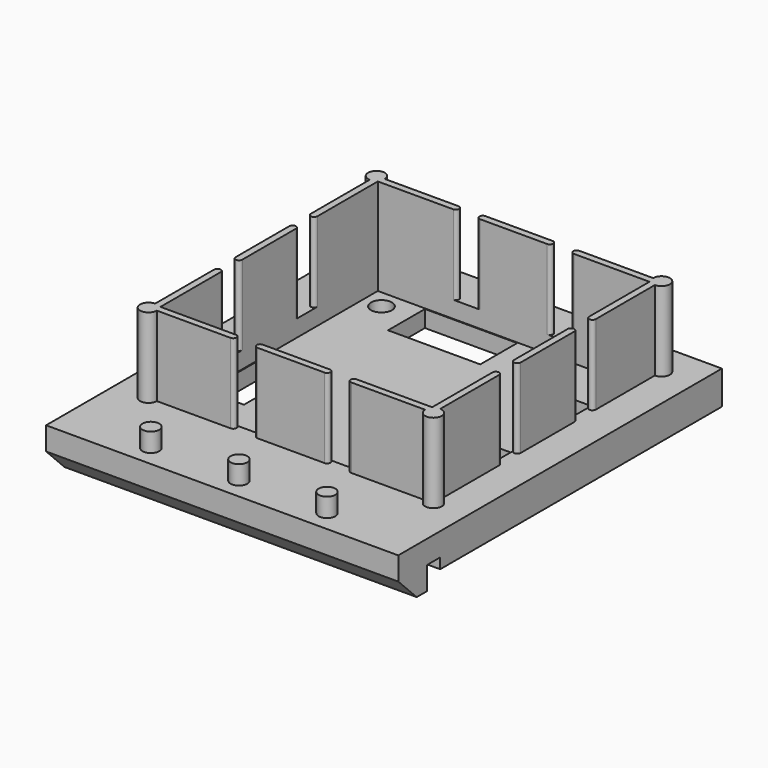
from build123d import *

# Parameters (mm, degrees)
F0_W     = 42
F0_H     = 42
F0_R     = 1.25
F0_W_2   = 4.5
F0_H_2   = 8
F0_W_3   = 4.4
F0_W_4   = 11
F0_H_3   = 5.5
F0_W_5   = 5.5
F0_H_4   = 7
F2_DEPTH = 4
F3_DEPTH = 21
F4_DEPTH = 21
F5_DEPTH = 9.5
F6_R     = 1
F7_DEPTH = 2.25
F8_DEPTH = 2


with BuildPart() as f2:
    # F0 (on Top) → F2 (new body)
    with BuildSketch(Plane.XY):
        with BuildLine():
            Line((16.2, 16.2), (16.2, 7.2))
            ThreePointArc((16.2, 7.2), (16.6, 6.8), (17, 7.2))
            Line((17, 7.2), (17, 16))
            ThreePointArc((17, 16), (17.707107, 17.707107), (16, 17))
            Line((16, 17), (7.2, 17))
            ThreePointArc((7.2, 17), (6.8, 16.6), (7.2, 16.2))
            Line((7.2, 16.2), (16.2, 16.2))
        make_face()
        with BuildLine():
            ThreePointArc((17, -7.2), (16.6, -6.8), (16.2, -7.2))
            Line((16.2, -7.2), (16.2, -16.2))
            Line((16.2, -16.2), (7.2, -16.2))
            ThreePointArc((7.2, -16.2), (6.8, -16.6), (7.2, -17))
            Line((7.2, -17), (16, -17))
            ThreePointArc((16, -17), (17.707107, -17.707107), (17, -16))
            Line((17, -16), (17, -7.2))
        make_face()
        with BuildLine():
            Line((-16.2, 16.2), (-7.2, 16.2))
            ThreePointArc((-7.2, 16.2), (-6.8, 16.6), (-7.2, 17))
            Line((-7.2, 17), (-16, 17))
            ThreePointArc((-16, 17), (-17.707107, 17.707107), (-17, 16))
            Line((-17, 16), (-17, 7.2))
            ThreePointArc((-17, 7.2), (-16.6, 6.8), (-16.2, 7.2))
            Line((-16.2, 7.2), (-16.2, 16.2))
        make_face()
        with BuildLine():
            ThreePointArc((-7.2, -17), (-6.8, -16.6), (-7.2, -16.2))
            Line((-7.2, -16.2), (-16.2, -16.2))
            Line((-16.2, -16.2), (-16.2, -7.2))
            ThreePointArc((-16.2, -7.2), (-16.6, -6.8), (-17, -7.2))
            Line((-17, -7.2), (-17, -16))
            ThreePointArc((-17, -16), (-17.707107, -17.707107), (-16, -17))
            Line((-16, -17), (-7.2, -17))
        make_face()
        Rectangle(F0_W, F0_H)
        with BuildLine():
            ThreePointArc((16.2, 4), (16.6, 4.4), (17, 4))
            Line((17, 4), (17, -4))
            ThreePointArc((17, -4), (16.6, -4.4), (16.2, -4))
            Line((16.2, -4), (16.2, -7.2))
            ThreePointArc((16.2, -7.2), (16.6, -6.8), (17, -7.2))
            Line((17, -7.2), (17, -16))
            ThreePointArc((17, -16), (17.707107, -17.707107), (16, -17))
            Line((16, -17), (7.2, -17))
            ThreePointArc((7.2, -17), (6.8, -16.6), (7.2, -16.2))
            Line((7.2, -16.2), (4, -16.2))
            ThreePointArc((4, -16.2), (4.4, -16.6), (4, -17))
            Line((4, -17), (-4, -17))
            ThreePointArc((-4, -17), (-4.4, -16.6), (-4, -16.2))
            Line((-4, -16.2), (-7.2, -16.2))
            ThreePointArc((-7.2, -16.2), (-6.8, -16.6), (-7.2, -17))
            Line((-7.2, -17), (-16, -17))
            ThreePointArc((-16, -17), (-17.707107, -17.707107), (-17, -16))
            Line((-17, -16), (-17, -7.2))
            ThreePointArc((-17, -7.2), (-16.6, -6.8), (-16.2, -7.2))
            Line((-16.2, -7.2), (-16.2, -4))
            ThreePointArc((-16.2, -4), (-16.6, -4.4), (-17, -4))
            Line((-17, -4), (-17, 4))
            ThreePointArc((-17, 4), (-16.6, 4.4), (-16.2, 4))
            Line((-16.2, 4), (-16.2, 7.2))
            ThreePointArc((-16.2, 7.2), (-16.6, 6.8), (-17, 7.2))
            Line((-17, 7.2), (-17, 16))
            ThreePointArc((-17, 16), (-17.707107, 17.707107), (-16, 17))
            Line((-16, 17), (-7.2, 17))
            ThreePointArc((-7.2, 17), (-6.8, 16.6), (-7.2, 16.2))
            Line((-7.2, 16.2), (-4, 16.2))
            ThreePointArc((-4, 16.2), (-4.4, 16.6), (-4, 17))
            Line((-4, 17), (4, 17))
            ThreePointArc((4, 17), (4.4, 16.6), (4, 16.2))
            Line((4, 16.2), (7.2, 16.2))
            ThreePointArc((7.2, 16.2), (6.8, 16.6), (7.2, 17))
            Line((7.2, 17), (16, 17))
            ThreePointArc((16, 17), (17.707107, 17.707107), (17, 16))
            Line((17, 16), (17, 7.2))
            ThreePointArc((17, 7.2), (16.6, 6.8), (16.2, 7.2))
            Line((16.2, 7.2), (16.2, 4))
        make_face(mode=Mode.SUBTRACT)
        Rectangle(F0_W, F0_H)
        with BuildLine():
            ThreePointArc((16.2, 4), (16.6, 4.4), (17, 4))
            Line((17, 4), (17, -4))
            ThreePointArc((17, -4), (16.6, -4.4), (16.2, -4))
            Line((16.2, -4), (16.2, -7.2))
            ThreePointArc((16.2, -7.2), (16.6, -6.8), (17, -7.2))
            Line((17, -7.2), (17, -16))
            ThreePointArc((17, -16), (17.707107, -17.707107), (16, -17))
            Line((16, -17), (7.2, -17))
            ThreePointArc((7.2, -17), (6.8, -16.6), (7.2, -16.2))
            Line((7.2, -16.2), (4, -16.2))
            ThreePointArc((4, -16.2), (4.4, -16.6), (4, -17))
            Line((4, -17), (-4, -17))
            ThreePointArc((-4, -17), (-4.4, -16.6), (-4, -16.2))
            Line((-4, -16.2), (-7.2, -16.2))
            ThreePointArc((-7.2, -16.2), (-6.8, -16.6), (-7.2, -17))
            Line((-7.2, -17), (-16, -17))
            ThreePointArc((-16, -17), (-17.707107, -17.707107), (-17, -16))
            Line((-17, -16), (-17, -7.2))
            ThreePointArc((-17, -7.2), (-16.6, -6.8), (-16.2, -7.2))
            Line((-16.2, -7.2), (-16.2, -4))
            ThreePointArc((-16.2, -4), (-16.6, -4.4), (-17, -4))
            Line((-17, -4), (-17, 4))
            ThreePointArc((-17, 4), (-16.6, 4.4), (-16.2, 4))
            Line((-16.2, 4), (-16.2, 7.2))
            ThreePointArc((-16.2, 7.2), (-16.6, 6.8), (-17, 7.2))
            Line((-17, 7.2), (-17, 16))
            ThreePointArc((-17, 16), (-17.707107, 17.707107), (-16, 17))
            Line((-16, 17), (-7.2, 17))
            ThreePointArc((-7.2, 17), (-6.8, 16.6), (-7.2, 16.2))
            Line((-7.2, 16.2), (-4, 16.2))
            ThreePointArc((-4, 16.2), (-4.4, 16.6), (-4, 17))
            Line((-4, 17), (4, 17))
            ThreePointArc((4, 17), (4.4, 16.6), (4, 16.2))
            Line((4, 16.2), (7.2, 16.2))
            ThreePointArc((7.2, 16.2), (6.8, 16.6), (7.2, 17))
            Line((7.2, 17), (16, 17))
            ThreePointArc((16, 17), (17.707107, 17.707107), (17, 16))
            Line((17, 16), (17, 7.2))
            ThreePointArc((17, 7.2), (16.6, 6.8), (16.2, 7.2))
            Line((16.2, 7.2), (16.2, 4))
        make_face(mode=Mode.SUBTRACT)
        with BuildLine():
            Line((-4, 16.2), (4, 16.2))
            ThreePointArc((4, 16.2), (4.4, 16.6), (4, 17))
            Line((4, 17), (-4, 17))
            ThreePointArc((-4, 17), (-4.4, 16.6), (-4, 16.2))
        make_face()
        with BuildLine():
            Line((16.2, 16.2), (16.2, 7.2))
            ThreePointArc((16.2, 7.2), (16.6, 6.8), (17, 7.2))
            Line((17, 7.2), (17, 16))
            ThreePointArc((17, 16), (17.707107, 17.707107), (16, 17))
            Line((16, 17), (7.2, 17))
            ThreePointArc((7.2, 17), (6.8, 16.6), (7.2, 16.2))
            Line((7.2, 16.2), (16.2, 16.2))
        make_face()
        with BuildLine():
            Line((-16.2, 16.2), (-7.2, 16.2))
            ThreePointArc((-7.2, 16.2), (-6.8, 16.6), (-7.2, 17))
            Line((-7.2, 17), (-16, 17))
            ThreePointArc((-16, 17), (-17.707107, 17.707107), (-17, 16))
            Line((-17, 16), (-17, 7.2))
            ThreePointArc((-17, 7.2), (-16.6, 6.8), (-16.2, 7.2))
            Line((-16.2, 7.2), (-16.2, 16.2))
        make_face()
        with BuildLine():
            Line((-16.2, -4), (-16.2, 4))
            ThreePointArc((-16.2, 4), (-16.6, 4.4), (-17, 4))
            Line((-17, 4), (-17, -4))
            ThreePointArc((-17, -4), (-16.6, -4.4), (-16.2, -4))
        make_face()
        with BuildLine():
            Line((17, -4), (17, 4))
            ThreePointArc((17, 4), (16.6, 4.4), (16.2, 4))
            Line((16.2, 4), (16.2, -4))
            ThreePointArc((16.2, -4), (16.6, -4.4), (17, -4))
        make_face()
        with BuildLine():
            ThreePointArc((17, -7.2), (16.6, -6.8), (16.2, -7.2))
            Line((16.2, -7.2), (16.2, -16.2))
            Line((16.2, -16.2), (7.2, -16.2))
            ThreePointArc((7.2, -16.2), (6.8, -16.6), (7.2, -17))
            Line((7.2, -17), (16, -17))
            ThreePointArc((16, -17), (17.707107, -17.707107), (17, -16))
            Line((17, -16), (17, -7.2))
        make_face()
        with BuildLine():
            ThreePointArc((-7.2, -17), (-6.8, -16.6), (-7.2, -16.2))
            Line((-7.2, -16.2), (-16.2, -16.2))
            Line((-16.2, -16.2), (-16.2, -7.2))
            ThreePointArc((-16.2, -7.2), (-16.6, -6.8), (-17, -7.2))
            Line((-17, -7.2), (-17, -16))
            ThreePointArc((-17, -16), (-17.707107, -17.707107), (-16, -17))
            Line((-16, -17), (-7.2, -17))
        make_face()
        with BuildLine():
            ThreePointArc((4, -17), (4.4, -16.6), (4, -16.2))
            Line((4, -16.2), (-4, -16.2))
            ThreePointArc((-4, -16.2), (-4.4, -16.6), (-4, -17))
            Line((-4, -17), (4, -17))
        make_face()
        Polygon((16.2, -4), (16.2, 4), (16.2, 7.2), (16.2, 16.2), (7.2, 16.2), (4, 16.2), (-4, 16.2), (-7.2, 16.2), (-16.2, 16.2), (-16.2, 7.2), (-16.2, 4), (-16.2, -4), (-16.2, -7.2), (-16.2, -16.2), (-7.2, -16.2), (-4, -16.2), (4, -16.2), (7.2, -16.2), (16.2, -16.2), (16.2, -7.2), align=None)
        with Locations((-14, -14)):
            Circle(F0_R, mode=Mode.SUBTRACT)
        with Locations((-13.85, -5.5)):
            Rectangle(F0_W_2, F0_H_2, mode=Mode.SUBTRACT)
        with Locations((14, -14)):
            Circle(F0_R, mode=Mode.SUBTRACT)
        with Locations((13.9, -5.5)):
            Rectangle(F0_W_3, F0_H_2, mode=Mode.SUBTRACT)
        with Locations((-14, 14)):
            Circle(F0_R, mode=Mode.SUBTRACT)
        with Locations((-5, 13.35)):
            Rectangle(F0_W_4, F0_H_3, mode=Mode.SUBTRACT)
        with Locations((13.35, 7)):
            Rectangle(F0_W_5, F0_H_4, mode=Mode.SUBTRACT)
        with Locations((14, 14)):
            Circle(F0_R, mode=Mode.SUBTRACT)
    extrude(amount=-F2_DEPTH)

    # F1 (on Right) → F3 (join)
    with BuildSketch(Plane.YZ):
        Polygon((-21, -2.75), (-21, 0), (-23, 0), (-27.25, 0), (-27.25, -2.75), (-24.5, -5.5), (-23, -5.5), (-23, -2.75), align=None)
    extrude(amount=F3_DEPTH)

    # F3_face (on face) → F4 (join)
    with BuildSketch(Plane(origin=(0, -24.257991, -2.172374), x_dir=(0, 1, 0), z_dir=(-1, 0, 0))):
        Polygon((3.257991, -2.172374), (3.257991, 0.577626), (1.257991, 0.577626), (1.257991, 3.327626), (-0.242009, 3.327626), (-2.992009, 0.577626), (-2.992009, -2.172374), align=None)
    extrude(amount=F4_DEPTH)

    # F0 (on Top) → F5 (join)
    with BuildSketch(Plane.XY):
        with BuildLine():
            Line((-16.2, 16.2), (-7.2, 16.2))
            ThreePointArc((-7.2, 16.2), (-6.8, 16.6), (-7.2, 17))
            Line((-7.2, 17), (-16, 17))
            ThreePointArc((-16, 17), (-17.707107, 17.707107), (-17, 16))
            Line((-17, 16), (-17, 7.2))
            ThreePointArc((-17, 7.2), (-16.6, 6.8), (-16.2, 7.2))
            Line((-16.2, 7.2), (-16.2, 16.2))
        make_face()
        with BuildLine():
            Line((-16.2, -4), (-16.2, 4))
            ThreePointArc((-16.2, 4), (-16.6, 4.4), (-17, 4))
            Line((-17, 4), (-17, -4))
            ThreePointArc((-17, -4), (-16.6, -4.4), (-16.2, -4))
        make_face()
        with BuildLine():
            ThreePointArc((-7.2, -17), (-6.8, -16.6), (-7.2, -16.2))
            Line((-7.2, -16.2), (-16.2, -16.2))
            Line((-16.2, -16.2), (-16.2, -7.2))
            ThreePointArc((-16.2, -7.2), (-16.6, -6.8), (-17, -7.2))
            Line((-17, -7.2), (-17, -16))
            ThreePointArc((-17, -16), (-17.707107, -17.707107), (-16, -17))
            Line((-16, -17), (-7.2, -17))
        make_face()
        with BuildLine():
            Line((-4, 16.2), (4, 16.2))
            ThreePointArc((4, 16.2), (4.4, 16.6), (4, 17))
            Line((4, 17), (-4, 17))
            ThreePointArc((-4, 17), (-4.4, 16.6), (-4, 16.2))
        make_face()
        with BuildLine():
            Line((16.2, 16.2), (16.2, 7.2))
            ThreePointArc((16.2, 7.2), (16.6, 6.8), (17, 7.2))
            Line((17, 7.2), (17, 16))
            ThreePointArc((17, 16), (17.707107, 17.707107), (16, 17))
            Line((16, 17), (7.2, 17))
            ThreePointArc((7.2, 17), (6.8, 16.6), (7.2, 16.2))
            Line((7.2, 16.2), (16.2, 16.2))
        make_face()
        with BuildLine():
            Line((17, -4), (17, 4))
            ThreePointArc((17, 4), (16.6, 4.4), (16.2, 4))
            Line((16.2, 4), (16.2, -4))
            ThreePointArc((16.2, -4), (16.6, -4.4), (17, -4))
        make_face()
        with BuildLine():
            ThreePointArc((4, -17), (4.4, -16.6), (4, -16.2))
            Line((4, -16.2), (-4, -16.2))
            ThreePointArc((-4, -16.2), (-4.4, -16.6), (-4, -17))
            Line((-4, -17), (4, -17))
        make_face()
        with BuildLine():
            ThreePointArc((17, -7.2), (16.6, -6.8), (16.2, -7.2))
            Line((16.2, -7.2), (16.2, -16.2))
            Line((16.2, -16.2), (7.2, -16.2))
            ThreePointArc((7.2, -16.2), (6.8, -16.6), (7.2, -17))
            Line((7.2, -17), (16, -17))
            ThreePointArc((16, -17), (17.707107, -17.707107), (17, -16))
            Line((17, -16), (17, -7.2))
        make_face()
    extrude(amount=F5_DEPTH)

    # F6 (on face) → F7 (join)
    with BuildSketch(Plane.XY):
        with Locations((-10.5, -24.75)):
            Circle(F6_R)
        with Locations((0, -24.75)):
            Circle(F6_R)
        with Locations((10.5, -24.75)):
            Circle(F6_R)
    extrude(amount=F7_DEPTH)

    # F0 (on Top) → F8 (cut)
    with BuildSketch(Plane.XY):
        Polygon((16.2, -4), (16.2, 4), (16.2, 7.2), (16.2, 16.2), (7.2, 16.2), (4, 16.2), (-4, 16.2), (-7.2, 16.2), (-16.2, 16.2), (-16.2, 7.2), (-16.2, 4), (-16.2, -4), (-16.2, -7.2), (-16.2, -16.2), (-7.2, -16.2), (-4, -16.2), (4, -16.2), (7.2, -16.2), (16.2, -16.2), (16.2, -7.2), align=None)
        with Locations((-14, -14)):
            Circle(F0_R, mode=Mode.SUBTRACT)
        with Locations((-13.85, -5.5)):
            Rectangle(F0_W_2, F0_H_2, mode=Mode.SUBTRACT)
        with Locations((14, -14)):
            Circle(F0_R, mode=Mode.SUBTRACT)
        with Locations((13.9, -5.5)):
            Rectangle(F0_W_3, F0_H_2, mode=Mode.SUBTRACT)
        with Locations((-14, 14)):
            Circle(F0_R, mode=Mode.SUBTRACT)
        with Locations((-5, 13.35)):
            Rectangle(F0_W_4, F0_H_3, mode=Mode.SUBTRACT)
        with Locations((13.35, 7)):
            Rectangle(F0_W_5, F0_H_4, mode=Mode.SUBTRACT)
        with Locations((14, 14)):
            Circle(F0_R, mode=Mode.SUBTRACT)
    extrude(amount=-F8_DEPTH, mode=Mode.SUBTRACT)


solid = f2.part
